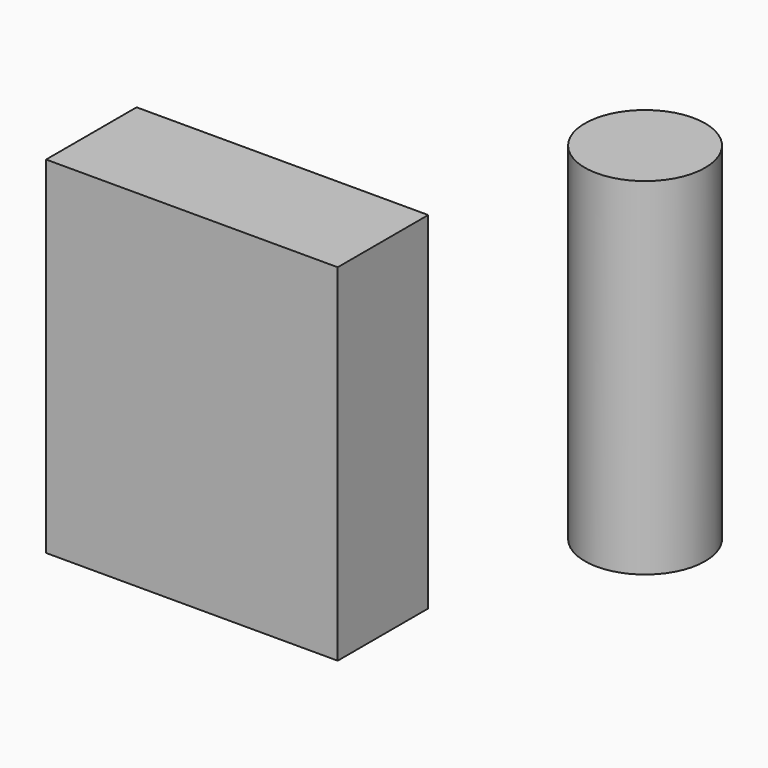
from build123d import *

# Parameters (mm, degrees)
F0_W     = 32.738879323
F0_H     = 38.8862430118
F1_DEPTH = 12.7
F2_R     = 6.7503897368


with BuildPart() as f1:
    # F0 (on Front) → F1 (new body)
    with BuildSketch(Plane.XZ):
        with Locations((-50.1110106707, 12.1353298891)):
            Rectangle(F0_W, F0_H)
    extrude(amount=F1_DEPTH)


with BuildPart() as f3:
    # F3: sweep along a path in F3_path
    with BuildLine(Plane(origin=(-33.7415710092, 0, 31.578451395), x_dir=(0, 0, 1), z_dir=(0, -1, 0))) as f3_path:
        Line((0, 0), (-38.8862430118, 0))
    # F2 (on Top) → F3 (sweep)
    with BuildSketch(Plane.XY):
        with Locations((-27.1364916116, 22.1708789468)):
            Circle(F2_R)
    sweep(path=f3_path.line)


solid = Compound([f1.part, f3.part])
